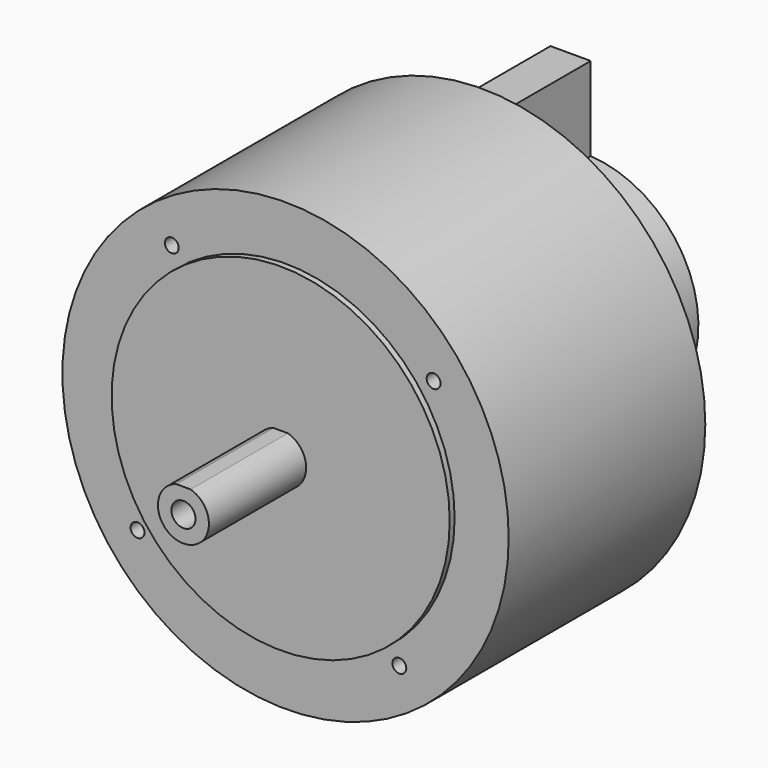
from build123d import *

# Parameters (mm, degrees)
F0_R          = 55.495
F1_DEPTH      = 61.11
F2_R          = 42.045
F3_DEPTH      = 1.52
F5_DEPTH      = 30.23
F5_DEPTH_BACK = 92.79
F6_R          = 37.5
F7_DEPTH      = 10.6
F8_R          = 28.5
F9_DEPTH      = 21
F10_R         = 1.7272
F11_DEPTH     = 6.35
F12_W         = 10
F12_H         = 50
F13_DEPTH     = 40
F14_R         = 3
F15_DEPTH     = 10


with BuildPart() as f1:
    # F0 (on Front) → F1 (new body)
    with BuildSketch(Plane.XZ):
        with Locations((20.227775, 17.58517)):
            Circle(F0_R)
    extrude(amount=F1_DEPTH)

    # F2 (on face) → F3 (join)
    with BuildSketch(Plane.XZ.offset(61.11)):
        with Locations((20.227775, 17.58517)):
            Circle(F2_R)
    extrude(amount=F3_DEPTH)

    # F4 (on face) → F5 (join, two sides)
    with BuildSketch(Plane.XZ.offset(62.63)) as f5_sk:
        with BuildLine():
            Line((22.004346, 23.67117), (18.451204, 23.67117))
            ThreePointArc((18.451204, 23.67117), (20.227775, 11.24517), (22.004346, 23.67117))
        make_face()
    extrude(amount=F5_DEPTH)
    extrude(f5_sk.sketch, amount=-F5_DEPTH_BACK)

    # F6 (on face) → F7 (join)
    with BuildSketch(Plane(origin=(0, 0, 0), x_dir=(-1, 0, 0), z_dir=(0, 1, 0))):
        with Locations((-20.227775, 17.58517)):
            Circle(F6_R)
    extrude(amount=F7_DEPTH)

    # F8 (on face) → F9 (join)
    with BuildSketch(Plane(origin=(0, 10.6, 0), x_dir=(-1, 0, 0), z_dir=(0, 1, 0))):
        with Locations((-20.227775, 17.58517)):
            Circle(F8_R)
    extrude(amount=F9_DEPTH)

    # F10 (on face) → F11 (cut)
    with BuildSketch(Plane.XZ.offset(61.11)):
        with Locations((57.043102, 45.876097)):
            Circle(F10_R)
        with Locations((-8.063152, 54.400497)):
            Circle(F10_R)
        with Locations((-16.587552, -10.705758)):
            Circle(F10_R)
        with Locations((48.518702, -19.230158)):
            Circle(F10_R)
    extrude(amount=-F11_DEPTH, mode=Mode.SUBTRACT)

    # F12 (on face) → F13 (join)
    with BuildSketch(Plane(origin=(0, 31.6, 0), x_dir=(-1, 0, 0), z_dir=(0, 1, 0))):
        with Locations((-16.93944, 41.850986)):
            Rectangle(F12_W, F12_H)
    extrude(amount=-F13_DEPTH)

    # F14 (on face) → F15 (cut)
    with BuildSketch(Plane.XZ.offset(92.86)):
        with Locations((20.227775, 17.58517)):
            Circle(F14_R)
    extrude(amount=-F15_DEPTH, mode=Mode.SUBTRACT)


solid = f1.part
